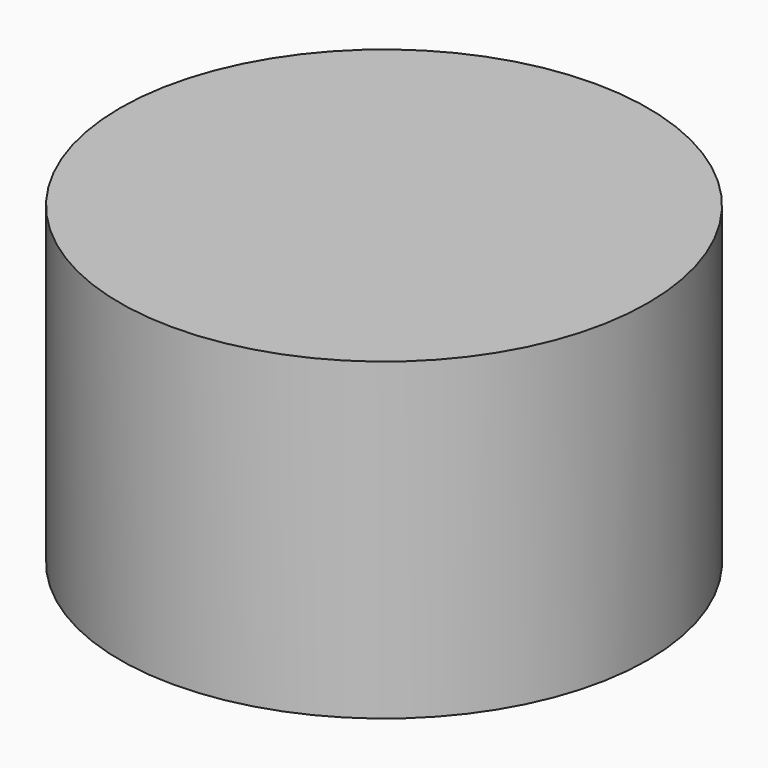
from build123d import *

# Parameters (mm, degrees)
SKETCH_R      = 42
EXTRUDE_DEPTH = 50


with BuildPart() as part:
    # Sketch → Extrude (new body)
    with BuildSketch(Plane.XY):
        Circle(SKETCH_R)
    extrude(amount=EXTRUDE_DEPTH)


solid = part.part
